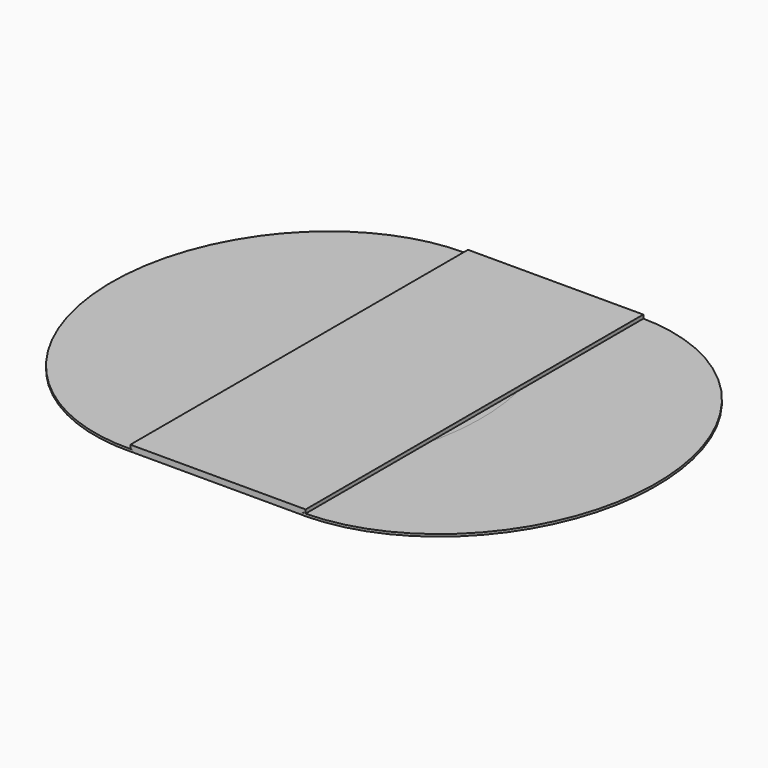
from build123d import *

# Parameters (mm, degrees)
BOX_W            = 760
BOX_H            = 1830
BOX_DEPTH        = 26
EXTRUDE_DEPTH    = 10
EXTRUDE001_DEPTH = 10


with BuildPart() as cube:
    # Box → Box (new body)
    with BuildSketch(Plane.XY):
        with Locations((380, 915)):
            Rectangle(BOX_W, BOX_H)
    extrude(amount=BOX_DEPTH)


with BuildPart() as extrude_body:
    # Sketch → Extrude (new body)
    with BuildSketch(Plane.XY):
        with BuildLine():
            add(Edge.make_bspline(
                [(748.41344, 1831.184567), (-638.673953, 1832.540372), (53.526828, 457.961861), (745.727609, -916.61665), (1440.614221, 456.606056), (2135.500833, 1829.828762), (748.41344, 1831.184567)],
                knots=[0, 0, 0, 2.094395, 2.094395, 4.18879, 4.18879, 6.283185, 6.283185, 6.283185], degree=2, weights=[1, 0.5, 1, 0.5, 1, 0.5, 1]))
        make_face()
    extrude(amount=EXTRUDE_DEPTH)


with BuildPart() as extrude001:
    # Sketch001 → Extrude001 (new body)
    with BuildSketch(Plane.XY):
        with BuildLine():
            add(Edge.make_bspline(
                [(748.41344, 1831.184567), (-638.673953, 1832.540372), (53.526828, 457.961861), (745.727609, -916.61665), (1440.614221, 456.606056), (2135.500833, 1829.828762), (748.41344, 1831.184567)],
                knots=[0, 0, 0, 2.094395, 2.094395, 4.18879, 4.18879, 6.283185, 6.283185, 6.283185], degree=2, weights=[1, 0.5, 1, 0.5, 1, 0.5, 1]))
        make_face()
    extrude(amount=EXTRUDE001_DEPTH)


with BuildPart() as extrude001_1:
    # Extrude001 placement: moved
    add(extrude001.part.moved(Location((-760, 0, 0))))


solid = Compound([cube.part, extrude_body.part, extrude001_1.part])
